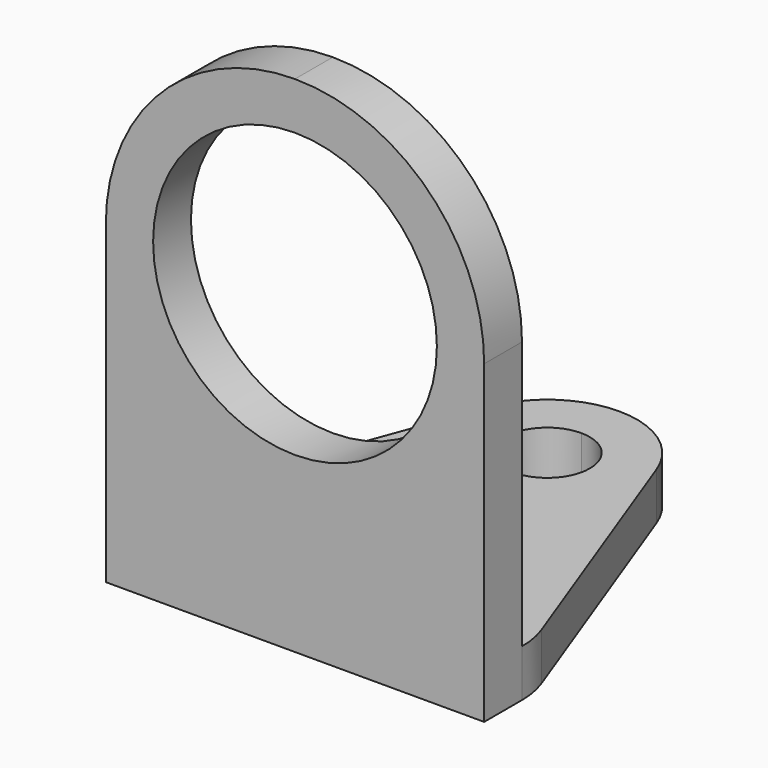
from build123d import *

# Parameters (mm, degrees)
PAD_DEPTH    = 3
PAD001_DEPTH = 3


with BuildPart() as part:
    # Sketch → Pad (new body)
    with BuildSketch(Plane.XY):
        with BuildLine():
            ThreePointArc((0, 17.3), (2.7, 20), (0, 22.7))
            Line((0, 25.7), (0, 22.7))
            ThreePointArc((5.344781, 21.980735), (3.255749, 24.678685), (0, 25.7))
            Line((11.644779, 4.980742), (5.344781, 21.980735))
            ThreePointArc((12, 3), (11.910492, 4.006171), (11.644779, 4.980742))
            Line((12, 0), (12, 3))
            Line((0, 0), (12, 0))
            Line((0, 17.3), (0, 0))
        make_face()
    pad = extrude(amount=PAD_DEPTH)

    # Sketch001 → Pad001 (join)
    with BuildSketch(Plane.XZ):
        with BuildLine():
            ThreePointArc((0, 11), (9, 20), (0, 29))
            Line((0, 29), (0, 32))
            ThreePointArc((12, 20.000045), (8.485265, 28.485297), (0, 32))
            Line((12, 20.000045), (12, 3))
            Line((12, 3), (12, 0))
            Line((12, 0), (0, 0))
            Line((0, 0), (0, 11))
        make_face()
    pad001 = extrude(amount=-PAD001_DEPTH)

    # Mirrored: Pad, Pad001 across Sketch V_Axis
    add(pad.mirror(Plane(origin=(0, 0, 0), x_dir=(0, 0, 1), z_dir=(1, 0, 0))))
    add(pad001.mirror(Plane(origin=(0, 0, 0), x_dir=(0, 0, 1), z_dir=(1, 0, 0))))


solid = part.part
